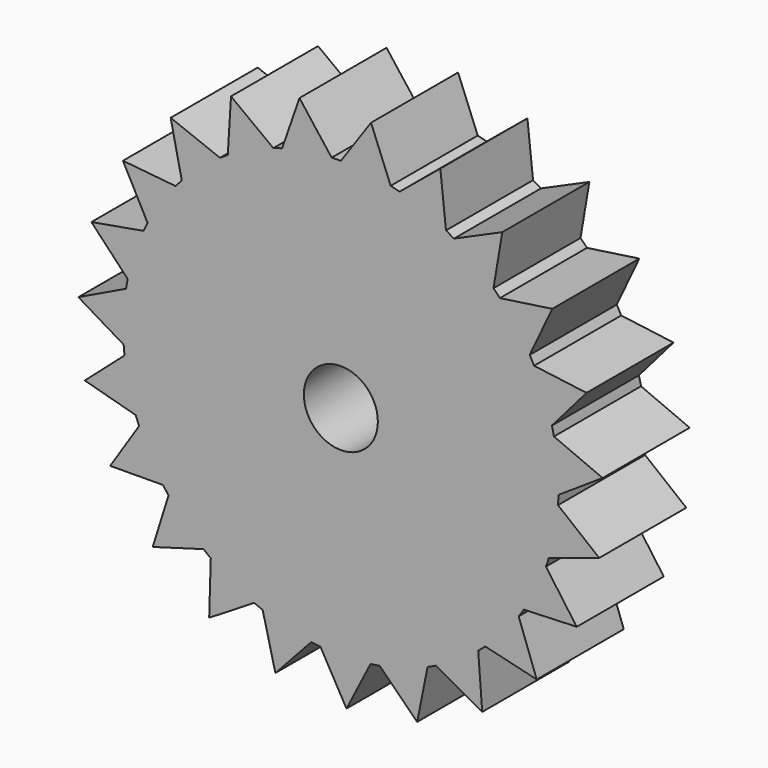
from build123d import *

# Parameters (mm, degrees)
F0_R     = 2.159
F1_DEPTH = 6.35


with BuildPart() as f1:
    # F0 (on Front) → F1 (new body)
    with BuildSketch(Plane.XZ):
        with BuildLine():
            ThreePointArc((12.695722, -0.329596), (12.698931, -0.164812), (12.7, 0))
            ThreePointArc((12.7, 0), (12.633417, 1.298755), (12.434368, 2.583891))
            ThreePointArc((12.434368, 2.583891), (12.376885, 2.846529), (12.313854, 3.107891))
            ThreePointArc((12.313854, 3.107891), (11.874003, 4.505335), (11.276142, 5.842826))
            ThreePointArc((11.276142, 5.842826), (11.149932, 6.080216), (11.018724, 6.31488))
            ThreePointArc((11.018724, 6.31488), (10.218158, 7.541833), (9.281617, 8.668425))
            ThreePointArc((9.281617, 8.668425), (9.09604, 8.86296), (8.906386, 9.053524))
            ThreePointArc((8.906386, 9.053524), (7.804479, 10.018987), (6.598716, 10.851126))
            ThreePointArc((6.598716, 10.851126), (6.367536, 10.98838), (6.133501, 11.120709))
            ThreePointArc((6.133501, 11.120709), (4.811977, 11.753079), (3.426419, 12.22905))
            ThreePointArc((3.426419, 12.22905), (3.166781, 12.298841), (2.905723, 12.363121))
            ThreePointArc((2.905723, 12.363121), (1.462593, 12.615499), (0, 12.7))
            ThreePointArc((0, 12.7), (-0.26884, 12.697154), (-0.537559, 12.688618))
            ThreePointArc((-0.537559, 12.688618), (-1.995265, 12.542285), (-3.426419, 12.22905))
            ThreePointArc((-3.426419, 12.22905), (-3.684522, 12.153777), (-3.940973, 12.073058))
            ThreePointArc((-3.940973, 12.073058), (-5.305143, 11.538867), (-6.598716, 10.851126))
            ThreePointArc((-6.598716, 10.851126), (-6.826939, 10.70901), (-7.052103, 10.562095))
            ThreePointArc((-7.052103, 10.562095), (-8.221563, 9.679664), (-9.281617, 8.668425))
            ThreePointArc((-9.281617, 8.668425), (-9.463034, 8.470005), (-9.640211, 8.267789))
            ThreePointArc((-9.640211, 8.267789), (-10.528227, 7.102565), (-11.276142, 5.842826))
            ThreePointArc((-11.276142, 5.842826), (-11.397299, 5.602818), (-11.513349, 5.360299))
            ThreePointArc((-11.513349, 5.360299), (-12.054061, 3.998701), (-12.434368, 2.583891))
            ThreePointArc((-12.434368, 2.583891), (-12.486279, 2.320096), (-12.532594, 2.05526))
            ThreePointArc((-12.532594, 2.05526), (-12.6859, 0.598271), (-12.670393, -0.866679))
            ThreePointArc((-12.670393, -0.866679), (-12.649208, -1.134697), (-12.622354, -1.402208))
            ThreePointArc((-12.622354, -1.402208), (-12.376885, -2.846529), (-11.966714, -4.252971))
            ThreePointArc((-11.966714, -4.252971), (-11.874003, -4.505335), (-11.775971, -4.75568))
            ThreePointArc((-11.775971, -4.75568), (-11.149932, -6.080216), (-10.375518, -7.32384))
            ThreePointArc((-10.375518, -7.32384), (-10.218158, -7.541833), (-10.056219, -7.756446))
            ThreePointArc((-10.056219, -7.756446), (-9.09604, -8.86296), (-8.014817, -9.851533))
            ThreePointArc((-8.014817, -9.851533), (-7.804479, -10.018987), (-7.590643, -10.181951))
            ThreePointArc((-7.590643, -10.181951), (-6.367536, -10.98838), (-5.059694, -11.648584))
            ThreePointArc((-5.059694, -11.648584), (-4.811977, -11.753079), (-4.562104, -11.852308))
            ThreePointArc((-4.562104, -11.852308), (-3.166781, -12.298841), (-1.729316, -12.581712))
            ThreePointArc((-1.729316, -12.581712), (-1.462593, -12.615499), (-1.195214, -12.643633))
            ThreePointArc((-1.195214, -12.643633), (0.26884, -12.697154), (1.729316, -12.581712))
            ThreePointArc((1.729316, -12.581712), (1.995265, -12.542285), (2.260319, -12.497238))
            ThreePointArc((2.260319, -12.497238), (3.684522, -12.153777), (5.059694, -11.648584))
            ThreePointArc((5.059694, -11.648584), (5.305143, -11.538867), (5.548215, -11.42398))
            ThreePointArc((5.548215, -11.42398), (6.826939, -10.70901), (8.014817, -9.851533))
            ThreePointArc((8.014817, -9.851533), (8.221563, -9.679664), (8.424625, -9.503457))
            ThreePointArc((8.424625, -9.503457), (9.463034, -8.470005), (10.375518, -7.32384))
            ThreePointArc((10.375518, -7.32384), (10.528227, -7.102565), (10.676219, -6.878107))
            ThreePointArc((10.676219, -6.878107), (11.397299, -5.602818), (11.966714, -4.252971))
            ThreePointArc((11.966714, -4.252971), (12.054061, -3.998701), (12.136007, -3.742639))
            ThreePointArc((12.136007, -3.742639), (12.486279, -2.320096), (12.670393, -0.866679))
            ThreePointArc((12.670393, -0.866679), (12.6859, -0.598271), (12.695722, -0.329596))
        make_face()
        Circle(F0_R, mode=Mode.SUBTRACT)
        with BuildLine():
            ThreePointArc((-12.670393, -0.866679), (-12.6859, 0.598271), (-12.532594, 2.05526))
            Line((-12.532594, 2.05526), (-15.316746, 0.717239))
            Line((-15.316746, 0.717239), (-12.670393, -0.866679))
        make_face()
        with BuildLine():
            ThreePointArc((-12.434368, 2.583891), (-12.054061, 3.998701), (-11.513349, 5.360299))
            Line((-11.513349, 5.360299), (-14.555251, 4.82305))
            Line((-14.555251, 4.82305), (-12.434368, 2.583891))
        make_face()
        with BuildLine():
            ThreePointArc((-11.276142, 5.842826), (-10.528227, 7.102565), (-9.640211, 8.267789))
            Line((-9.640211, 8.267789), (-12.714259, 8.571158))
            Line((-12.714259, 8.571158), (-11.276142, 5.842826))
        make_face()
        with BuildLine():
            ThreePointArc((-9.281617, 8.668425), (-8.221563, 9.679664), (-7.052103, 10.562095))
            Line((-7.052103, 10.562095), (-9.930309, 11.683582))
            Line((-9.930309, 11.683582), (-9.281617, 8.668425))
        make_face()
        with BuildLine():
            ThreePointArc((-6.598716, 10.851126), (-5.305143, 11.538867), (-3.940973, 12.073058))
            Line((-3.940973, 12.073058), (-6.409874, 13.929489))
            Line((-6.409874, 13.929489), (-6.598716, 10.851126))
        make_face()
        with BuildLine():
            ThreePointArc((-3.426419, 12.22905), (-1.995265, 12.542285), (-0.537559, 12.688618))
            Line((-0.537559, 12.688618), (-2.414047, 15.142308))
            Line((-2.414047, 15.142308), (-3.426419, 12.22905))
        make_face()
        with BuildLine():
            ThreePointArc((0, 12.7), (1.462593, 12.615499), (2.905723, 12.363121))
            Line((2.905723, 12.363121), (1.760818, 15.232093))
            Line((1.760818, 15.232093), (0, 12.7))
        make_face()
        with BuildLine():
            ThreePointArc((3.426419, 12.22905), (4.811977, 11.753079), (6.133501, 11.120709))
            Line((6.133501, 11.120709), (5.805092, 14.192182))
            Line((5.805092, 14.192182), (3.426419, 12.22905))
        make_face()
        with BuildLine():
            ThreePointArc((6.598716, 10.851126), (7.804479, 10.018987), (8.906386, 9.053524))
            Line((8.906386, 9.053524), (9.418828, 12.099703))
            Line((9.418828, 12.099703), (6.598716, 10.851126))
        make_face()
        with BuildLine():
            ThreePointArc((9.281617, 8.668425), (10.218158, 7.541833), (11.018724, 6.31488))
            Line((11.018724, 6.31488), (12.334013, 9.109843))
            Line((12.334013, 9.109843), (9.281617, 8.668425))
        make_face()
        with BuildLine():
            ThreePointArc((11.276142, 5.842826), (11.874003, 4.505335), (12.313854, 3.107891))
            Line((12.313854, 3.107891), (14.334441, 5.444349))
            Line((14.334441, 5.444349), (11.276142, 5.842826))
        make_face()
        with BuildLine():
            ThreePointArc((12.434368, 2.583891), (12.633417, 1.298755), (12.7, 0))
            ThreePointArc((12.7, 0), (12.698931, -0.164812), (12.695722, -0.329596))
            Line((12.695722, -0.329596), (15.271749, 1.375072))
            Line((15.271749, 1.375072), (12.434368, 2.583891))
        make_face()
        with BuildLine():
            Line((15.076421, -2.796188), (12.670393, -0.866679))
            ThreePointArc((12.670393, -0.866679), (12.486279, -2.320096), (12.136007, -3.742639))
            Line((12.136007, -3.742639), (15.076421, -2.796188))
        make_face()
        with BuildLine():
            Line((13.762944, -6.760068), (11.966714, -4.252971))
            ThreePointArc((11.966714, -4.252971), (11.397299, -5.602818), (10.676219, -6.878107))
            Line((10.676219, -6.878107), (13.762944, -6.760068))
        make_face()
        with BuildLine():
            Line((11.428732, -10.222584), (10.375518, -7.32384))
            ThreePointArc((10.375518, -7.32384), (9.463034, -8.470005), (8.424625, -9.503457))
            Line((8.424625, -9.503457), (11.428732, -10.222584))
        make_face()
        with BuildLine():
            Line((8.246903, -12.926937), (8.014817, -9.851533))
            ThreePointArc((8.014817, -9.851533), (6.826939, -10.70901), (5.548215, -11.42398))
            Line((5.548215, -11.42398), (8.246903, -12.926937))
        make_face()
        with BuildLine():
            Line((4.45344, -14.672559), (5.059694, -11.648584))
            ThreePointArc((5.059694, -11.648584), (3.684522, -12.153777), (2.260319, -12.497238))
            Line((2.260319, -12.497238), (4.45344, -14.672559))
        make_face()
        with BuildLine():
            Line((0.329685, -15.329985), (1.729316, -12.581712))
            ThreePointArc((1.729316, -12.581712), (0.26884, -12.697154), (-1.195214, -12.643633))
            Line((-1.195214, -12.643633), (0.329685, -15.329985))
        make_face()
        with BuildLine():
            Line((-3.818521, -14.850455), (-1.729316, -12.581712))
            ThreePointArc((-1.729316, -12.581712), (-3.166781, -12.298841), (-4.562104, -11.852308))
            Line((-4.562104, -11.852308), (-3.818521, -14.850455))
        make_face()
        with BuildLine():
            Line((-7.683525, -13.269536), (-5.059694, -11.648584))
            ThreePointArc((-5.059694, -11.648584), (-6.367536, -10.98838), (-7.590643, -10.181951))
            Line((-7.590643, -10.181951), (-7.683525, -13.269536))
        make_face()
        with BuildLine():
            Line((-10.978677, -10.704475), (-8.014817, -9.851533))
            ThreePointArc((-8.014817, -9.851533), (-9.09604, -8.86296), (-10.056219, -7.756446))
            Line((-10.056219, -7.756446), (-10.978677, -10.704475))
        make_face()
        with BuildLine():
            Line((-13.45959, -7.345513), (-10.375518, -7.32384))
            ThreePointArc((-10.375518, -7.32384), (-11.149932, -6.080216), (-11.775971, -4.75568))
            Line((-11.775971, -4.75568), (-13.45959, -7.345513))
        make_face()
        with BuildLine():
            Line((-14.942268, -3.441767), (-11.966714, -4.252971))
            ThreePointArc((-11.966714, -4.252971), (-12.376885, -2.846529), (-12.622354, -1.402208))
            Line((-12.622354, -1.402208), (-14.942268, -3.441767))
        make_face()
    extrude(amount=F1_DEPTH)


solid = f1.part
